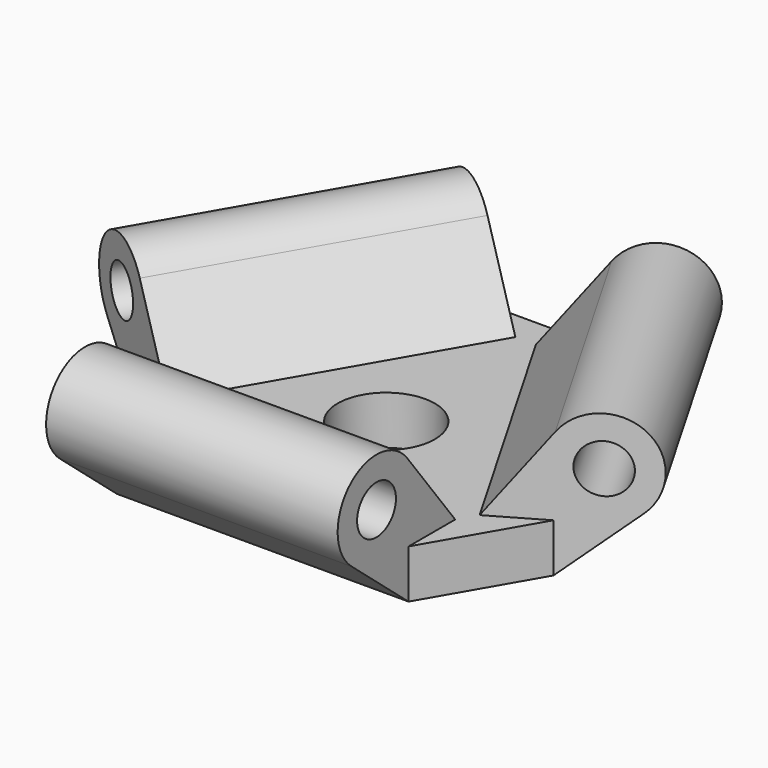
from build123d import *

# Parameters (mm, degrees)
PAD_DEPTH          = 5
POCKET_DEPTH       = 5.001
SKETCH002_R        = 5
POCKET001_DEPTH    = 5
SKETCH003_R        = 2.5
PAD001_DEPTH       = 15
POLARPATTERN_COUNT = 3


with BuildPart() as part:
    # Sketch → Pad (new body)
    with BuildSketch(Plane.XY):
        Polygon((0, 31.754265), (-27.5, -15.877132), (27.5, -15.877132), align=None)
    extrude(amount=PAD_DEPTH)

    # Sketch001 (on Face5 of Pad) → Pocket (cut, through all)
    with BuildSketch(Plane.XY.offset(5)):
        Polygon((-21.25, -5.051815), (-15, -15.877132), (-27.5, -15.877132), align=None)
        Polygon((27.5, -15.877132), (21.25, -5.051815), (15, -15.877132), align=None)
        Polygon((0, 31.754265), (6.25, 20.928947), (-6.25, 20.928947), align=None)
    extrude(amount=-POCKET_DEPTH, mode=Mode.SUBTRACT)

    # Sketch002 (on Face4 of Pocket) → Pocket001 (cut)
    with BuildSketch(Plane.XY.offset(5)):
        Circle(SKETCH002_R)
    extrude(amount=-POCKET001_DEPTH, mode=Mode.SUBTRACT)

    # Sketch003 → Pad001 (join, symmetric)
    with BuildSketch(Plane.YZ):
        with BuildLine():
            ThreePointArc((-16.02939, 13.038792), (-23.453338, 13.615862), (-23.218057, 6.173238))
            Line((-15.877132, 0), (-23.218057, 6.173238))
            Line((-15.877132, 5), (-15.877132, 0))
            Line((-9.877132, 5), (-15.877132, 5))
            Line((-16.02939, 13.038792), (-9.877132, 5))
        make_face()
        with Locations((-20, 10)):
            Circle(SKETCH003_R, mode=Mode.SUBTRACT)
    pad001 = extrude(amount=PAD001_DEPTH, both=True)

    # PolarPattern: Pad001 ×3 about axis
    polarpattern_axis = Axis((0, 0, 0), (0, 0, 1))
    for i in range(1, POLARPATTERN_COUNT):
        add(pad001.rotate(polarpattern_axis, i * 360 / POLARPATTERN_COUNT))


solid = part.part
